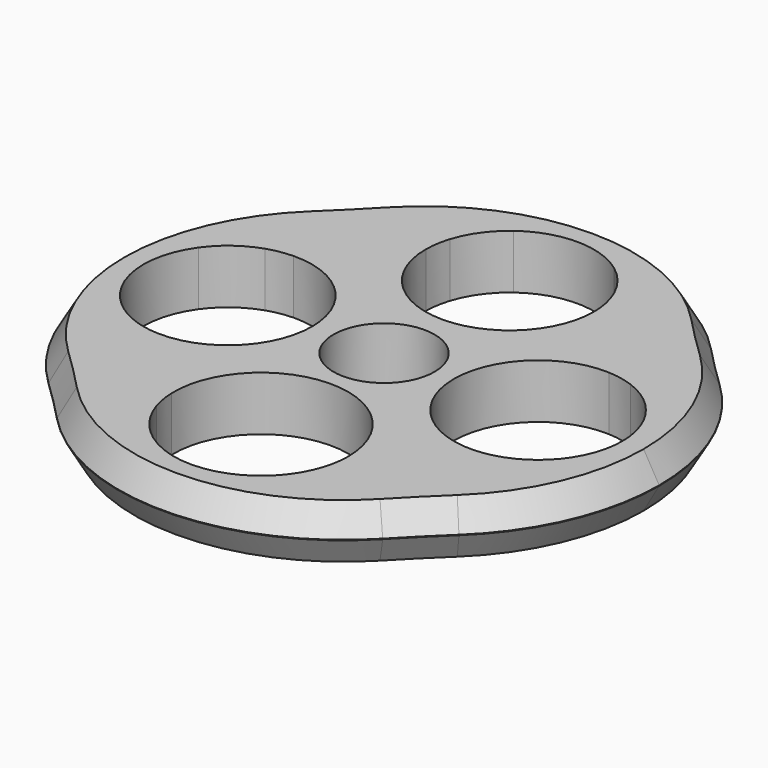
from build123d import *

# Parameters (mm, degrees)
F0_R       = 6.5146341495
F1_DEPTH   = 7
F2_R       = 150
F3_SIZE2   = 3.4641016151
F3_SIZE    = 2
F3_2_SIZE2 = 3.4641016151
F3_2_SIZE  = 2


with BuildPart() as f1:
    # F0 (on Top) → F1 (new body)
    with BuildSketch(Plane.XY):
        with BuildLine():
            ThreePointArc((20.3305371016, 10.8474336629), (18.8276716907, 14.0034842548), (16.9554240496, 16.9554240496))
            ThreePointArc((16.9554240496, 16.9554240496), (14.0082290327, 18.8250492727), (10.8574857337, 20.3264731323))
            ThreePointArc((10.8574857337, 20.3264731323), (10.8576641201, 20.2905395913), (10.8577235824, 20.2546056568))
            ThreePointArc((10.8577235824, 20.2546056568), (-0.0359339345, 9.3969415367), (-10.8574857337, 20.3264731323))
            ThreePointArc((-10.8574857337, 20.3264731323), (-14.0082290327, 18.8250492727), (-16.9554240496, 16.9554240496))
            ThreePointArc((-16.9554240496, 16.9554240496), (-18.8254179031, 14.0075621913), (-20.3270445442, 10.8560730228))
            ThreePointArc((-20.3270445442, 10.8560730228), (-12.5273872935, 7.7442134548), (-9.280006631, 0))
            ThreePointArc((-9.280006631, 0), (-12.5273872935, -7.7442134548), (-20.3270445442, -10.8560730228))
            ThreePointArc((-20.3270445442, -10.8560730228), (-18.8254179031, -14.0075621913), (-16.9554240496, -16.9554240496))
            ThreePointArc((-16.9554240496, -16.9554240496), (-14.1911797406, -18.7230451047), (-11.2446974396, -20.1665730208))
            ThreePointArc((-11.2446974396, -20.1665730208), (-0.1727046676, -8.5725301074), (11.25, -19.8212043892))
            ThreePointArc((11.25, -19.8212043892), (11.2486742818, -19.9939090568), (11.2446974396, -20.1665730208))
            ThreePointArc((11.2446974396, -20.1665730208), (14.1911797406, -18.7230451047), (16.9554240496, -16.9554240496))
            ThreePointArc((16.9554240496, -16.9554240496), (18.8276716907, -14.0034842548), (20.3305371016, -10.8474336629))
            ThreePointArc((20.3305371016, -10.8474336629), (9.0002203311, 0), (20.3305371016, 10.8474336629))
        make_face()
        Circle(F0_R, mode=Mode.SUBTRACT)
        with BuildLine():
            ThreePointArc((-16.9554240496, 16.9554240496), (-20.5343741855, 13.8978501036), (-23.5705866136, 10.300760085))
            ThreePointArc((-23.5705866136, 10.300760085), (-21.9699756434, 10.7020109361), (-20.3270445442, 10.8560730228))
            ThreePointArc((-20.3270445442, 10.8560730228), (-18.8254179031, 14.0075621913), (-16.9554240496, 16.9554240496))
        make_face()
        with BuildLine():
            ThreePointArc((-6.4970776314, 28.9539242303), (-15.4163775625, 27.5515698423), (-23.470058199, 23.470058199))
            ThreePointArc((-23.470058199, 23.470058199), (-27.5758715938, 15.3408078623), (-28.9533926969, 6.3383165249))
            ThreePointArc((-28.9533926969, 6.3383165249), (-26.5744835451, 8.7440475719), (-23.5705866136, 10.300760085))
            ThreePointArc((-23.5705866136, 10.300760085), (-20.5343741855, 13.8978501036), (-16.9554240496, 16.9554240496))
            ThreePointArc((-16.9554240496, 16.9554240496), (-13.9194172815, 20.5129124867), (-10.3502609953, 23.5351938238))
            ThreePointArc((-10.3502609953, 23.5351938238), (-8.8486645605, 26.5467672001), (-6.4970776314, 28.9539242303))
        make_face()
        with BuildLine():
            ThreePointArc((-10.8574857337, 20.3264731323), (-10.7245560491, 21.9499106272), (-10.3502609953, 23.5351938238))
            ThreePointArc((-10.3502609953, 23.5351938238), (-13.9194172815, 20.5129124867), (-16.9554240496, 16.9554240496))
            ThreePointArc((-16.9554240496, 16.9554240496), (-14.0082290327, 18.8250492727), (-10.8574857337, 20.3264731323))
        make_face()
        with BuildLine():
            ThreePointArc((-28.9533926969, -6.3383165249), (-27.5758715938, -15.3408078623), (-23.470058199, -23.470058199))
            ThreePointArc((-23.470058199, -23.470058199), (-15.4507716917, -27.5404335913), (-6.5693817436, -28.9538777933))
            ThreePointArc((-6.5693817436, -28.9538777933), (-9.0925043483, -26.4460715332), (-10.7064490846, -23.2758314312))
            ThreePointArc((-10.7064490846, -23.2758314312), (-14.0749053099, -20.3568391805), (-16.9554240496, -16.9554240496))
            ThreePointArc((-16.9554240496, -16.9554240496), (-20.5343741855, -13.8978501036), (-23.5705866136, -10.300760085))
            ThreePointArc((-23.5705866136, -10.300760085), (-26.5744835451, -8.7440475719), (-28.9533926969, -6.3383165249))
        make_face()
        with BuildLine():
            ThreePointArc((-6.5693817436, -28.9538777933), (-15.4507716917, -27.5404335913), (-23.470058199, -23.470058199))
            ThreePointArc((-23.470058199, -23.470058199), (0, -35.4685637026), (23.470058199, -23.470058199))
            ThreePointArc((23.470058199, -23.470058199), (15.4507716917, -27.5404335913), (6.5693817436, -28.9538777933))
            ThreePointArc((6.5693817436, -28.9538777933), (0, -31.0712043892), (-6.5693817436, -28.9538777933))
        make_face()
        with BuildLine():
            ThreePointArc((-28.9533926969, 6.3383165249), (-27.5758715938, 15.3408078623), (-23.470058199, 23.470058199))
            ThreePointArc((-23.470058199, 23.470058199), (-35.4685637026, 0), (-23.470058199, -23.470058199))
            ThreePointArc((-23.470058199, -23.470058199), (-27.5758715938, -15.3408078623), (-28.9533926969, -6.3383165249))
            ThreePointArc((-28.9533926969, -6.3383165249), (-30.9954537959, 0), (-28.9533926969, 6.3383165249))
        make_face()
        with BuildLine():
            ThreePointArc((6.4970776314, 28.9539242303), (15.4163775625, 27.5515698423), (23.470058199, 23.470058199))
            ThreePointArc((23.470058199, 23.470058199), (0, 35.4685637026), (-23.470058199, 23.470058199))
            ThreePointArc((-23.470058199, 23.470058199), (-15.4163775625, 27.5515698423), (-6.4970776314, 28.9539242303))
            ThreePointArc((-6.4970776314, 28.9539242303), (0, 31.1123292392), (6.4970776314, 28.9539242303))
        make_face()
        with BuildLine():
            ThreePointArc((28.9481833992, 5.9378200954), (28.952492979, 6.2262128121), (28.9539295531, 6.5146341495))
            ThreePointArc((28.9539295531, 6.5146341495), (27.5488697433, 15.424730245), (23.470058199, 23.470058199))
            ThreePointArc((23.470058199, 23.470058199), (15.4163775625, 27.5515698423), (6.4970776314, 28.9539242303))
            ThreePointArc((6.4970776314, 28.9539242303), (8.8486645605, 26.5467672001), (10.3502609953, 23.5351938238))
            ThreePointArc((10.3502609953, 23.5351938238), (13.9194172815, 20.5129124867), (16.9554240496, 16.9554240496))
            ThreePointArc((16.9554240496, 16.9554240496), (20.591369411, 13.8403539947), (23.6642529801, 10.1686858877))
            ThreePointArc((23.6642529801, 10.1686858877), (26.6443492565, 8.4755450511), (28.9481833992, 5.9378200954))
        make_face()
        with BuildLine():
            ThreePointArc((16.9554240496, 16.9554240496), (13.9194172815, 20.5129124867), (10.3502609953, 23.5351938238))
            ThreePointArc((10.3502609953, 23.5351938238), (10.7245560491, 21.9499106272), (10.8574857337, 20.3264731323))
            ThreePointArc((10.8574857337, 20.3264731323), (14.0082290327, 18.8250492727), (16.9554240496, 16.9554240496))
        make_face()
        with BuildLine():
            ThreePointArc((20.3305371016, 10.8474336629), (22.0241446803, 10.6394424492), (23.6642529801, 10.1686858877))
            ThreePointArc((23.6642529801, 10.1686858877), (20.591369411, 13.8403539947), (16.9554240496, 16.9554240496))
            ThreePointArc((16.9554240496, 16.9554240496), (18.8276716907, 14.0034842548), (20.3305371016, 10.8474336629))
        make_face()
        with BuildLine():
            ThreePointArc((23.470058199, 23.470058199), (27.5488697433, 15.424730245), (28.9539295531, 6.5146341495))
            ThreePointArc((28.9539295531, 6.5146341495), (28.952492979, 6.2262128121), (28.9481833992, 5.9378200954))
            ThreePointArc((28.9481833992, 5.9378200954), (30.2644195183, 3.0976486049), (30.7156674959, 0))
            ThreePointArc((30.7156674959, 0), (30.2644195183, -3.0976486049), (28.9481833992, -5.9378200954))
            ThreePointArc((28.9481833992, -5.9378200954), (28.952492979, -6.2262128121), (28.9539295531, -6.5146341495))
            ThreePointArc((28.9539295531, -6.5146341495), (27.5488697433, -15.424730245), (23.470058199, -23.470058199))
            ThreePointArc((23.470058199, -23.470058199), (32.2950161292, -13.1796032393), (35.4685637026, 0))
            ThreePointArc((35.4685637026, 0), (32.2950161292, 13.1796032393), (23.470058199, 23.470058199))
        make_face()
        with BuildLine():
            ThreePointArc((16.9554240496, -16.9554240496), (20.591369411, -13.8403539947), (23.6642529801, -10.1686858877))
            ThreePointArc((23.6642529801, -10.1686858877), (22.0241446803, -10.6394424492), (20.3305371016, -10.8474336629))
            ThreePointArc((20.3305371016, -10.8474336629), (18.8276716907, -14.0034842548), (16.9554240496, -16.9554240496))
        make_face()
        with BuildLine():
            ThreePointArc((-16.9554240496, -16.9554240496), (-14.0749053099, -20.3568391805), (-10.7064490846, -23.2758314312))
            ThreePointArc((-10.7064490846, -23.2758314312), (-11.0851287948, -21.7401675475), (-11.2446974396, -20.1665730208))
            ThreePointArc((-11.2446974396, -20.1665730208), (-14.1911797406, -18.7230451047), (-16.9554240496, -16.9554240496))
        make_face()
        with BuildLine():
            ThreePointArc((-20.3270445442, -10.8560730228), (-21.9699756434, -10.7020109361), (-23.5705866136, -10.300760085))
            ThreePointArc((-23.5705866136, -10.300760085), (-20.5343741855, -13.8978501036), (-16.9554240496, -16.9554240496))
            ThreePointArc((-16.9554240496, -16.9554240496), (-18.8254179031, -14.0075621913), (-20.3270445442, -10.8560730228))
        make_face()
        with BuildLine():
            ThreePointArc((6.5693817436, -28.9538777933), (15.4507716917, -27.5404335913), (23.470058199, -23.470058199))
            ThreePointArc((23.470058199, -23.470058199), (27.5488697433, -15.424730245), (28.9539295531, -6.5146341495))
            ThreePointArc((28.9539295531, -6.5146341495), (28.952492979, -6.2262128121), (28.9481833992, -5.9378200954))
            ThreePointArc((28.9481833992, -5.9378200954), (26.6443492565, -8.4755450511), (23.6642529801, -10.1686858877))
            ThreePointArc((23.6642529801, -10.1686858877), (20.591369411, -13.8403539947), (16.9554240496, -16.9554240496))
            ThreePointArc((16.9554240496, -16.9554240496), (14.0749053099, -20.3568391805), (10.7064490846, -23.2758314312))
            ThreePointArc((10.7064490846, -23.2758314312), (9.0925043483, -26.4460715332), (6.5693817436, -28.9538777933))
        make_face()
        with BuildLine():
            ThreePointArc((10.7064490846, -23.2758314312), (14.0749053099, -20.3568391805), (16.9554240496, -16.9554240496))
            ThreePointArc((16.9554240496, -16.9554240496), (14.1911797406, -18.7230451047), (11.2446974396, -20.1665730208))
            ThreePointArc((11.2446974396, -20.1665730208), (11.0851287948, -21.7401675475), (10.7064490846, -23.2758314312))
        make_face()
    extrude(amount=F1_DEPTH)

    # F2
    f2_edges = [f1.edges().sort_by_distance(p)[0] for p in [
        (23.470058, -23.470058, 3.5),
        (23.470058, 23.470058, 3.5),
        (-23.470058, 23.470058, 3.5),
        (-23.470058, -23.470058, 3.5),
    ]]
    fillet(f2_edges, radius=F2_R)

    # F3
    f3_edges = [f1.edges().sort_by_distance(p)[0] for p in [
        (-35.468564, 0, 7),
    ]]
    f3_side = f1.faces().sort_by_distance((0, -34.465361, 7))[0]
    chamfer(f3_edges, length=F3_SIZE, length2=F3_SIZE2, reference=f3_side)

    # F3#2
    f3_2_edges = [f1.edges().sort_by_distance(p)[0] for p in [
        (-35.468564, 0, 0),
    ]]
    f3_2_side = f1.faces().sort_by_distance((0, -34.465361, 0))[0]
    chamfer(f3_2_edges, length=F3_2_SIZE, length2=F3_2_SIZE2, reference=f3_2_side)


solid = f1.part
